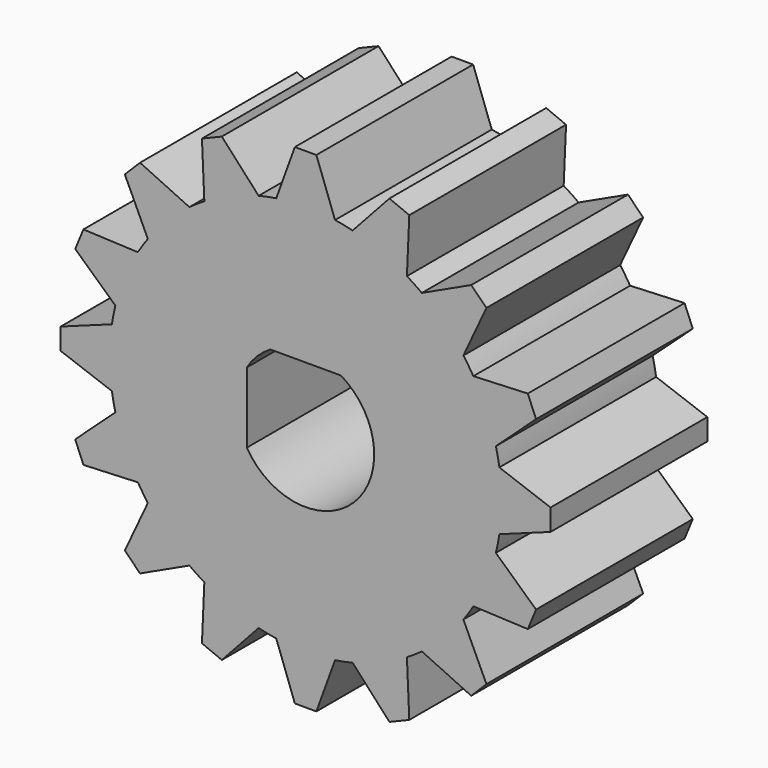
from build123d import *

# Parameters (mm, degrees)
F1_DEPTH = 20
F3_DEPTH = 25


with BuildPart() as f1:
    # F0 (on Front) → F1 (new body)
    with BuildSketch(Plane.XZ):
        with BuildLine():
            ThreePointArc((19.7737199333, -3), (19.9433497521, -1.5042608375), (20, 0))
            ThreePointArc((20, 0), (19.9433497521, 1.5042608375), (19.7737199333, 3))
            Line((19.7737199333, 3), (19.7737199333, -3))
        make_face()
        with BuildLine():
            ThreePointArc((19.7737199333, 3), (19.9433497521, 1.5042608375), (20, 0))
            ThreePointArc((20, 0), (19.9433497521, -1.5042608375), (19.7737199333, -3))
            Line((19.7737199333, -3), (25, -1.0977896198))
            Line((25, -1.0977896198), (25, 1.0977896198))
            Line((25, 1.0977896198), (19.7737199333, 3))
        make_face()
        with BuildLine():
            Line((19.7737199333, -3), (19.7737199333, 3))
            ThreePointArc((19.7737199333, 3), (19.6157056081, 3.9018064403), (19.4165854251, 4.7954364172))
            Line((19.4165854251, 4.7954364172), (17.1204848309, 10.3387136122))
            ThreePointArc((17.1204848309, 10.3387136122), (16.6293922461, 11.1114046604), (16.1034517977, 11.8608111105))
            Line((16.1034517977, 11.8608111105), (11.8608111105, 16.1034517977))
            ThreePointArc((11.8608111105, 16.1034517977), (11.1114046604, 16.6293922461), (10.3387136122, 17.1204848309))
            Line((10.3387136122, 17.1204848309), (4.7954364172, 19.4165854251))
            ThreePointArc((4.7954364172, 19.4165854251), (3.9018064403, 19.6157056081), (3, 19.7737199333))
            Line((3, 19.7737199333), (-3, 19.7737199333))
            ThreePointArc((-3, 19.7737199333), (-3.9018064403, 19.6157056081), (-4.7954364172, 19.4165854251))
            Line((-4.7954364172, 19.4165854251), (-10.3387136122, 17.1204848309))
            ThreePointArc((-10.3387136122, 17.1204848309), (-11.1114046604, 16.6293922461), (-11.8608111105, 16.1034517977))
            Line((-11.8608111105, 16.1034517977), (-16.1034517977, 11.8608111105))
            ThreePointArc((-16.1034517977, 11.8608111105), (-16.6293922461, 11.1114046604), (-17.1204848309, 10.3387136122))
            Line((-17.1204848309, 10.3387136122), (-19.4165854251, 4.7954364172))
            ThreePointArc((-19.4165854251, 4.7954364172), (-19.6157056081, 3.9018064403), (-19.7737199333, 3))
            Line((-19.7737199333, 3), (-19.7737199333, -3))
            ThreePointArc((-19.7737199333, -3), (-19.6157056081, -3.9018064403), (-19.4165854251, -4.7954364172))
            Line((-19.4165854251, -4.7954364172), (-17.1204848309, -10.3387136122))
            ThreePointArc((-17.1204848309, -10.3387136122), (-16.6293922461, -11.1114046604), (-16.1034517977, -11.8608111105))
            Line((-16.1034517977, -11.8608111105), (-11.8608111105, -16.1034517977))
            ThreePointArc((-11.8608111105, -16.1034517977), (-11.1114046604, -16.6293922461), (-10.3387136122, -17.1204848309))
            Line((-10.3387136122, -17.1204848309), (-4.7954364172, -19.4165854251))
            ThreePointArc((-4.7954364172, -19.4165854251), (-3.9018064403, -19.6157056081), (-3, -19.7737199333))
            Line((-3, -19.7737199333), (3, -19.7737199333))
            ThreePointArc((3, -19.7737199333), (3.9018064403, -19.6157056081), (4.7954364172, -19.4165854251))
            Line((4.7954364172, -19.4165854251), (10.3387136122, -17.1204848309))
            ThreePointArc((10.3387136122, -17.1204848309), (11.1114046604, -16.6293922461), (11.8608111105, -16.1034517977))
            Line((11.8608111105, -16.1034517977), (16.1034517977, -11.8608111105))
            ThreePointArc((16.1034517977, -11.8608111105), (16.6293922461, -11.1114046604), (17.1204848309, -10.3387136122))
            Line((17.1204848309, -10.3387136122), (19.4165854251, -4.7954364172))
            ThreePointArc((19.4165854251, -4.7954364172), (19.6157056081, -3.9018064403), (19.7737199333, -3))
        make_face()
        with BuildLine():
            Line((17.1204848309, 10.3387136122), (19.4165854251, 4.7954364172))
            ThreePointArc((19.4165854251, 4.7954364172), (18.4775906502, 7.6536686473), (17.1204848309, 10.3387136122))
        make_face()
        with BuildLine():
            ThreePointArc((17.1204848309, 10.3387136122), (18.4775906502, 7.6536686473), (19.4165854251, 4.7954364172))
            Line((19.4165854251, 4.7954364172), (23.5170942125, 8.5528604484))
            Line((23.5170942125, 8.5528604484), (22.6768824131, 10.5813111698))
            Line((22.6768824131, 10.5813111698), (17.1204848309, 10.3387136122))
        make_face()
        with BuildLine():
            Line((23.5170942125, -8.5528604484), (19.4165854251, -4.7954364172))
            ThreePointArc((19.4165854251, -4.7954364172), (18.4775906502, -7.6536686473), (17.1204848309, -10.3387136122))
            Line((17.1204848309, -10.3387136122), (22.6768824131, -10.5813111698))
            Line((22.6768824131, -10.5813111698), (23.5170942125, -8.5528604484))
        make_face()
        with BuildLine():
            ThreePointArc((17.1204848309, -10.3387136122), (18.4775906502, -7.6536686473), (19.4165854251, -4.7954364172))
            Line((19.4165854251, -4.7954364172), (17.1204848309, -10.3387136122))
        make_face()
        with BuildLine():
            Line((11.8608111105, 16.1034517977), (16.1034517977, 11.8608111105))
            ThreePointArc((16.1034517977, 11.8608111105), (14.1421356237, 14.1421356237), (11.8608111105, 16.1034517977))
        make_face()
        with BuildLine():
            ThreePointArc((11.8608111105, 16.1034517977), (14.1421356237, 14.1421356237), (16.1034517977, 11.8608111105))
            Line((16.1034517977, 11.8608111105), (18.4539240141, 16.9014150452))
            Line((18.4539240141, 16.9014150452), (16.9014150452, 18.4539240141))
            Line((16.9014150452, 18.4539240141), (11.8608111105, 16.1034517977))
        make_face()
        with BuildLine():
            Line((18.4539240141, -16.9014150452), (16.1034517977, -11.8608111105))
            ThreePointArc((16.1034517977, -11.8608111105), (14.1421356237, -14.1421356237), (11.8608111105, -16.1034517977))
            Line((11.8608111105, -16.1034517977), (16.9014150452, -18.4539240141))
            Line((16.9014150452, -18.4539240141), (18.4539240141, -16.9014150452))
        make_face()
        with BuildLine():
            ThreePointArc((11.8608111105, -16.1034517977), (14.1421356237, -14.1421356237), (16.1034517977, -11.8608111105))
            Line((16.1034517977, -11.8608111105), (11.8608111105, -16.1034517977))
        make_face()
        with BuildLine():
            Line((4.7954364172, 19.4165854251), (10.3387136122, 17.1204848309))
            ThreePointArc((10.3387136122, 17.1204848309), (7.6536686473, 18.4775906502), (4.7954364172, 19.4165854251))
        make_face()
        with BuildLine():
            ThreePointArc((4.7954364172, 19.4165854251), (7.6536686473, 18.4775906502), (10.3387136122, 17.1204848309))
            Line((10.3387136122, 17.1204848309), (10.5813111698, 22.6768824131))
            Line((10.5813111698, 22.6768824131), (8.5528604484, 23.5170942125))
            Line((8.5528604484, 23.5170942125), (4.7954364172, 19.4165854251))
        make_face()
        with BuildLine():
            Line((10.5813111698, -22.6768824131), (10.3387136122, -17.1204848309))
            ThreePointArc((10.3387136122, -17.1204848309), (7.6536686473, -18.4775906502), (4.7954364172, -19.4165854251))
            Line((4.7954364172, -19.4165854251), (8.5528604484, -23.5170942125))
            Line((8.5528604484, -23.5170942125), (10.5813111698, -22.6768824131))
        make_face()
        with BuildLine():
            ThreePointArc((4.7954364172, -19.4165854251), (7.6536686473, -18.4775906502), (10.3387136122, -17.1204848309))
            Line((10.3387136122, -17.1204848309), (4.7954364172, -19.4165854251))
        make_face()
        with BuildLine():
            Line((-3, 19.7737199333), (3, 19.7737199333))
            ThreePointArc((3, 19.7737199333), (0, 20), (-3, 19.7737199333))
        make_face()
        with BuildLine():
            ThreePointArc((-3, 19.7737199333), (0, 20), (3, 19.7737199333))
            Line((3, 19.7737199333), (1.0977896198, 25))
            Line((1.0977896198, 25), (-1.0977896198, 25))
            Line((-1.0977896198, 25), (-3, 19.7737199333))
        make_face()
        with BuildLine():
            Line((1.0977896198, -25), (3, -19.7737199333))
            ThreePointArc((3, -19.7737199333), (0, -20), (-3, -19.7737199333))
            Line((-3, -19.7737199333), (-1.0977896198, -25))
            Line((-1.0977896198, -25), (1.0977896198, -25))
        make_face()
        with BuildLine():
            ThreePointArc((-3, -19.7737199333), (0, -20), (3, -19.7737199333))
            Line((3, -19.7737199333), (-3, -19.7737199333))
        make_face()
        with BuildLine():
            Line((-10.3387136122, 17.1204848309), (-4.7954364172, 19.4165854251))
            ThreePointArc((-4.7954364172, 19.4165854251), (-7.6536686473, 18.4775906502), (-10.3387136122, 17.1204848309))
        make_face()
        with BuildLine():
            ThreePointArc((-10.3387136122, 17.1204848309), (-7.6536686473, 18.4775906502), (-4.7954364172, 19.4165854251))
            Line((-4.7954364172, 19.4165854251), (-8.5528604484, 23.5170942125))
            Line((-8.5528604484, 23.5170942125), (-10.5813111698, 22.6768824131))
            Line((-10.5813111698, 22.6768824131), (-10.3387136122, 17.1204848309))
        make_face()
        with BuildLine():
            Line((-8.5528604484, -23.5170942125), (-4.7954364172, -19.4165854251))
            ThreePointArc((-4.7954364172, -19.4165854251), (-7.6536686473, -18.4775906502), (-10.3387136122, -17.1204848309))
            Line((-10.3387136122, -17.1204848309), (-10.5813111698, -22.6768824131))
            Line((-10.5813111698, -22.6768824131), (-8.5528604484, -23.5170942125))
        make_face()
        with BuildLine():
            ThreePointArc((-10.3387136122, -17.1204848309), (-7.6536686473, -18.4775906502), (-4.7954364172, -19.4165854251))
            Line((-4.7954364172, -19.4165854251), (-10.3387136122, -17.1204848309))
        make_face()
        with BuildLine():
            Line((-16.1034517977, 11.8608111105), (-11.8608111105, 16.1034517977))
            ThreePointArc((-11.8608111105, 16.1034517977), (-14.1421356237, 14.1421356237), (-16.1034517977, 11.8608111105))
        make_face()
        with BuildLine():
            ThreePointArc((-16.1034517977, 11.8608111105), (-14.1421356237, 14.1421356237), (-11.8608111105, 16.1034517977))
            Line((-11.8608111105, 16.1034517977), (-16.9014150452, 18.4539240141))
            Line((-16.9014150452, 18.4539240141), (-18.4539240141, 16.9014150452))
            Line((-18.4539240141, 16.9014150452), (-16.1034517977, 11.8608111105))
        make_face()
        with BuildLine():
            Line((-16.9014150452, -18.4539240141), (-11.8608111105, -16.1034517977))
            ThreePointArc((-11.8608111105, -16.1034517977), (-14.1421356237, -14.1421356237), (-16.1034517977, -11.8608111105))
            Line((-16.1034517977, -11.8608111105), (-18.4539240141, -16.9014150452))
            Line((-18.4539240141, -16.9014150452), (-16.9014150452, -18.4539240141))
        make_face()
        with BuildLine():
            ThreePointArc((-16.1034517977, -11.8608111105), (-14.1421356237, -14.1421356237), (-11.8608111105, -16.1034517977))
            Line((-11.8608111105, -16.1034517977), (-16.1034517977, -11.8608111105))
        make_face()
        with BuildLine():
            Line((-19.4165854251, 4.7954364172), (-17.1204848309, 10.3387136122))
            ThreePointArc((-17.1204848309, 10.3387136122), (-18.4775906502, 7.6536686473), (-19.4165854251, 4.7954364172))
        make_face()
        with BuildLine():
            ThreePointArc((-19.4165854251, 4.7954364172), (-18.4775906502, 7.6536686473), (-17.1204848309, 10.3387136122))
            Line((-17.1204848309, 10.3387136122), (-22.6768824131, 10.5813111698))
            Line((-22.6768824131, 10.5813111698), (-23.5170942125, 8.5528604484))
            Line((-23.5170942125, 8.5528604484), (-19.4165854251, 4.7954364172))
        make_face()
        with BuildLine():
            Line((-22.6768824131, -10.5813111698), (-17.1204848309, -10.3387136122))
            ThreePointArc((-17.1204848309, -10.3387136122), (-18.4775906502, -7.6536686473), (-19.4165854251, -4.7954364172))
            Line((-19.4165854251, -4.7954364172), (-23.5170942125, -8.5528604484))
            Line((-23.5170942125, -8.5528604484), (-22.6768824131, -10.5813111698))
        make_face()
        with BuildLine():
            ThreePointArc((-19.4165854251, -4.7954364172), (-18.4775906502, -7.6536686473), (-17.1204848309, -10.3387136122))
            Line((-17.1204848309, -10.3387136122), (-19.4165854251, -4.7954364172))
        make_face()
        with BuildLine():
            Line((-19.7737199333, -3), (-19.7737199333, 3))
            ThreePointArc((-19.7737199333, 3), (-20, 0), (-19.7737199333, -3))
        make_face()
        with BuildLine():
            ThreePointArc((-19.7737199333, -3), (-20, 0), (-19.7737199333, 3))
            Line((-19.7737199333, 3), (-25, 1.0977896198))
            Line((-25, 1.0977896198), (-25, -1.0977896198))
            Line((-25, -1.0977896198), (-19.7737199333, -3))
        make_face()
    extrude(amount=F1_DEPTH)

    # F2 (on face) → F3 (cut)
    with BuildSketch(Plane(origin=(0, 0, 0), x_dir=(-1, 0, 0), z_dir=(0, 1, 0))):
        with BuildLine():
            Line((6, -3.6055512755), (6, 3.6055512755))
            ThreePointArc((6, 3.6055512755), (4.9497474683, 4.9497474683), (3.6055512755, 6))
            Line((3.6055512755, 6), (-3.6055512755, 6))
            ThreePointArc((-3.6055512755, 6), (-4.9497474683, -4.9497474683), (6, -3.6055512755))
        make_face()
    extrude(amount=-F3_DEPTH, mode=Mode.SUBTRACT)


solid = f1.part
